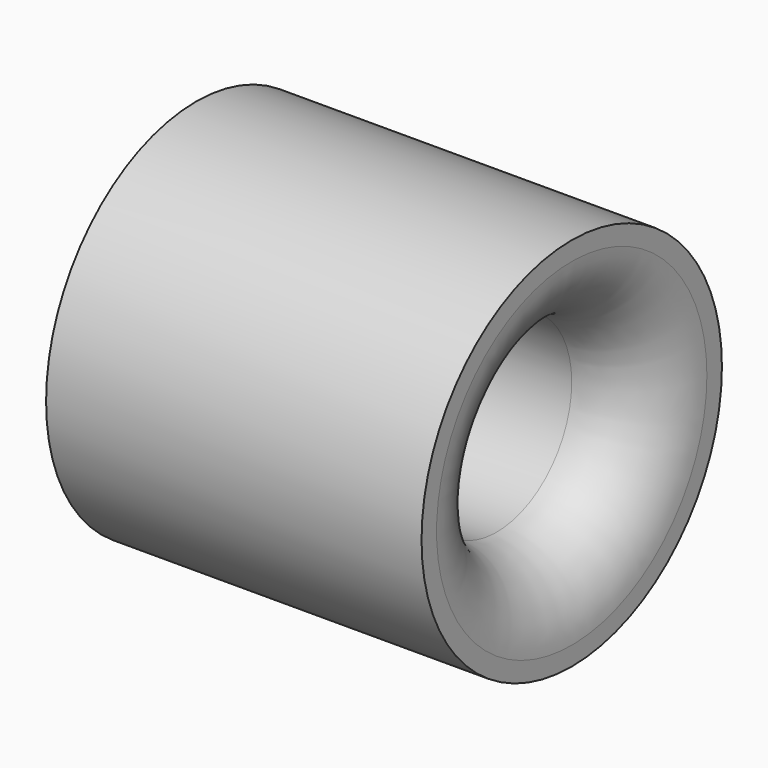
from build123d import *

# Parameters (mm, degrees)
F0_R     = 5
F1_DEPTH = 5
F2_R     = 2.5
F3_DEPTH = 25
F4_R     = 2


with BuildPart() as f1:
    # F0 (on Right) → F1 (new body, symmetric)
    with BuildSketch(Plane.YZ):
        Circle(F0_R)
    extrude(amount=F1_DEPTH, both=True)

    # F2 (on face) → F3 (cut)
    with BuildSketch(Plane.YZ.offset(5)):
        Circle(F2_R)
    extrude(amount=-F3_DEPTH, mode=Mode.SUBTRACT)

    # F4
    f4_edges = [f1.edges().sort_by_distance(p)[0] for p in [
        (5, -2.5, 0),
        (-5, -2.5, 0),
    ]]
    fillet(f4_edges, radius=F4_R)


solid = f1.part
